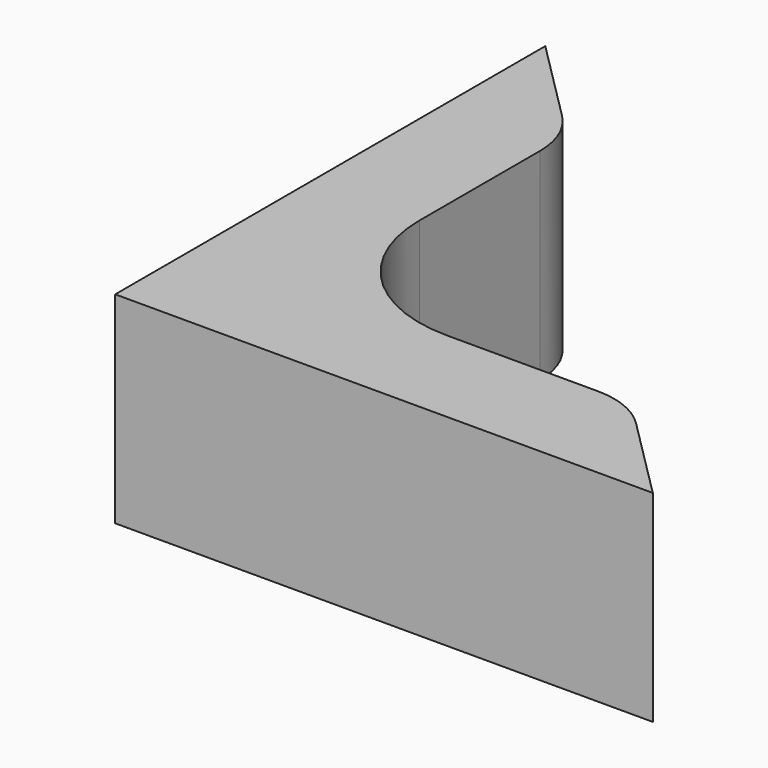
from build123d import *

# Parameters (mm, degrees)
F1_DEPTH = 9.525
F2_R     = 13.061378
F3_R     = 7.62


with BuildPart() as f1:
    # F0 (on Top) → F1 (new body, symmetric)
    with BuildSketch(Plane.XY):
        Polygon((-25.4, -25.4), (25.4, -25.4), (15.24, -15.24), (-15.24, -15.24), (-15.24, 15.24), (-25.4, 25.4), align=None)
    extrude(amount=F1_DEPTH, both=True)

    # F2
    f2_edges = [f1.edges().sort_by_distance(p)[0] for p in [
        (-15.24, -15.24, 0),
    ]]
    fillet(f2_edges, radius=F2_R)

    # F3
    f3_edges = [f1.edges().sort_by_distance(p)[0] for p in [
        (-15.24, 15.24, 0),
        (15.24, -15.24, 0),
    ]]
    fillet(f3_edges, radius=F3_R)


solid = f1.part
